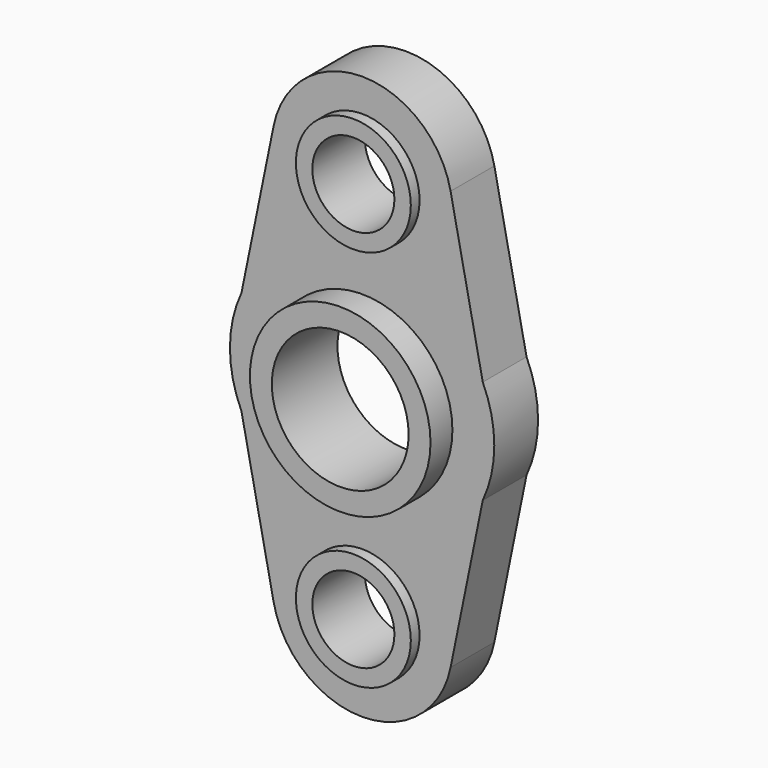
from build123d import *

# Parameters (mm, degrees)
F0_R     = 16.5
F0_R_2   = 12.5
F1_DEPTH = 15
F0_R_3   = 10.5
F2_DEPTH = 10
F0_R_4   = 7.5
F3_DEPTH = 12


with BuildPart() as f1:
    # F0 (on Front) → F1 (new body)
    with BuildSketch(Plane.XZ):
        with Locations((-47.357392, 65.085371)):
            Circle(F0_R)
        with Locations((-47.357392, 65.085371)):
            Circle(F0_R_2, mode=Mode.SUBTRACT)
    extrude(amount=F1_DEPTH)

    # F0 (on Front) → F2 (join)
    with BuildSketch(Plane.XZ):
        with BuildLine():
            Line((-25.311984, 74.585371), (-31.190759, 103.385371))
            ThreePointArc((-31.190759, 103.385371), (-47.357392, 116.585371), (-63.524024, 103.385371))
            Line((-63.524024, 103.385371), (-69.402799, 74.585371))
            ThreePointArc((-69.402799, 74.585371), (-71.506721, 65.085371), (-69.402799, 55.585371))
            Line((-69.402799, 55.585371), (-63.524024, 26.785371))
            ThreePointArc((-63.524024, 26.785371), (-47.357392, 13.585371), (-31.190759, 26.785371))
            Line((-31.190759, 26.785371), (-25.311984, 55.585371))
            ThreePointArc((-25.311984, 55.585371), (-23.208062, 65.085371), (-25.311984, 74.585371))
        make_face()
        with Locations((-47.357392, 30.085371)):
            Circle(F0_R_3, mode=Mode.SUBTRACT)
        with Locations((-47.357392, 65.085371)):
            Circle(F0_R, mode=Mode.SUBTRACT)
        with Locations((-47.357392, 100.085371)):
            Circle(F0_R_3, mode=Mode.SUBTRACT)
    extrude(amount=F2_DEPTH)

    # F0 (on Front) → F3 (join)
    with BuildSketch(Plane.XZ):
        with Locations((-47.357392, 100.085371)):
            Circle(F0_R_3)
        with Locations((-47.357392, 100.085371)):
            Circle(F0_R_4, mode=Mode.SUBTRACT)
        with Locations((-47.357392, 30.085371)):
            Circle(F0_R_3)
        with Locations((-47.357392, 30.085371)):
            Circle(F0_R_4, mode=Mode.SUBTRACT)
    extrude(amount=F3_DEPTH)


solid = f1.part
